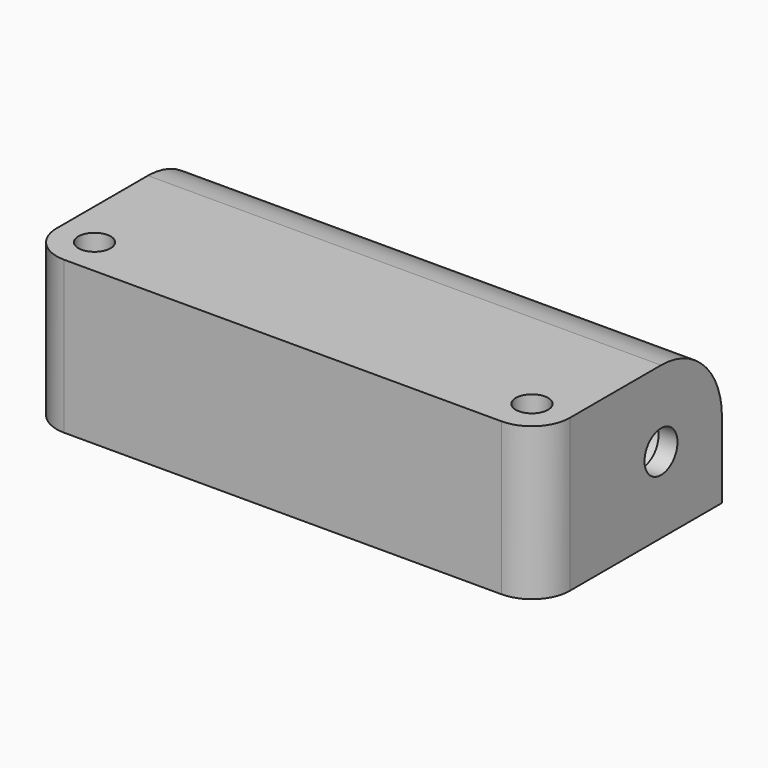
from build123d import *

# Parameters (mm, degrees)
F0_W     = 43.0059846
F0_H     = 19.1125094
F0_R     = 1.35255
F1_DEPTH = 12.7625094
F2_R     = 3.175
F3_R     = 6.3812547
F4_R     = 1.7272
F5_DEPTH = 43.0059846
F6_R     = 4
F6_R_2   = 1.7272
F8_DEPTH = 41.4184846


with BuildPart() as f1:
    # F0 (on Top) → F1 (new body)
    with BuildSketch(Plane.XY):
        with Locations((21.5029923, -9.5562547)):
            Rectangle(F0_W, F0_H)
        with Locations((3.175, -15.9375094)):
            Circle(F0_R, mode=Mode.SUBTRACT)
        with Locations((39.8309846, -15.9375094)):
            Circle(F0_R, mode=Mode.SUBTRACT)
    extrude(amount=F1_DEPTH)

    # F2
    f2_edges = [f1.edges().sort_by_distance(p)[0] for p in [
        (43.005985, -19.112509, 6.381255),
        (0, -19.112509, 6.381255),
    ]]
    fillet(f2_edges, radius=F2_R)

    # F3
    f3_edges = [f1.edges().sort_by_distance(p)[0] for p in [
        (21.502992, 0, 12.762509),
    ]]
    fillet(f3_edges, radius=F3_R)

    # F4 (on face) → F5 (cut, through all)
    with BuildSketch(Plane.YZ.offset(43.0059846)):
        with Locations((-6.3812547, 6.3812547)):
            Circle(F4_R)
    extrude(amount=-F5_DEPTH, mode=Mode.SUBTRACT)

    # F6 (on face) → F8 (cut, through all)
    with BuildSketch(Plane(origin=(0, 0, 0), x_dir=(0, -1, 0), z_dir=(-1, 0, 0))):
        with Locations((6.3812547, 6.3812547)):
            Circle(F6_R)
        with Locations((6.3812547, 6.3812547)):
            Circle(F6_R_2, mode=Mode.SUBTRACT)
    extrude(amount=-F8_DEPTH, mode=Mode.SUBTRACT)


solid = f1.part
